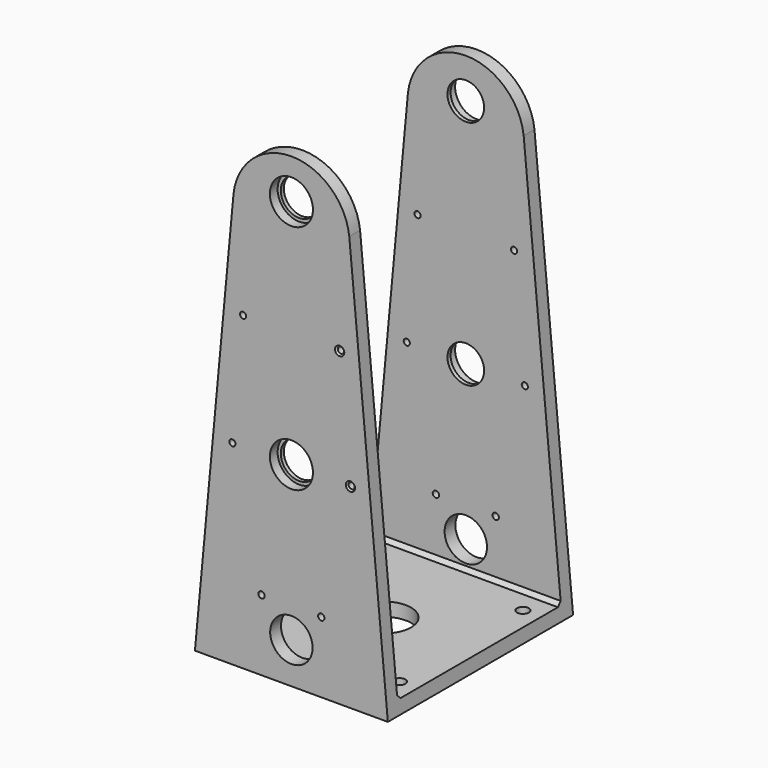
from build123d import *

# Parameters (mm, degrees)
SKETCH107_R             = 9.5
SKETCH107_R_2           = 11
SKETCH107_R_3           = 1.65
SKETCH107_R_4           = 1.6
PAD033_DEPTH            = 120
POCKET065_DEPTH         = 152.4
SKETCH104_R             = 3.1
SKETCH104_R_2           = 14
POCKET063_DEPTH         = 8
SKETCH103_R             = 11.15
POCKET064_DEPTH         = 5
SKETCH106_R             = 11.15
POCKET066_DEPTH         = 5
CHAMFER013_SIZE         = 0.8
BODY025_PLACEMENT_ANGLE = 90


with BuildPart() as part:
    # Sketch107 → Pad033 (new body)
    with BuildSketch(Plane.XY):
        with BuildLine():
            Line((-50, 0), (50, 0))
            Line((50, 0), (30, 215))
            ThreePointArc((30, 215), (0, 241.8364621975), (-30, 215))
            Line((-50, 0), (-30, 215))
        make_face()
        with Locations((0, 221.15)):
            Circle(SKETCH107_R, mode=Mode.SUBTRACT)
        with Locations((0, 21.15)):
            Circle(SKETCH107_R_2, mode=Mode.SUBTRACT)
        with Locations((0, 101.15)):
            Circle(SKETCH107_R, mode=Mode.SUBTRACT)
        with Locations((-15.5, 36.65)):
            Circle(SKETCH107_R_3, mode=Mode.SUBTRACT)
        with Locations((15.5, 36.65)):
            Circle(SKETCH107_R_3, mode=Mode.SUBTRACT)
        with Locations((-30.5906976744, 101.15)):
            Circle(SKETCH107_R_4, mode=Mode.SUBTRACT)
        with Locations((30.5906976744, 101.15)):
            Circle(SKETCH107_R_4, mode=Mode.SUBTRACT)
        with Locations((-25.0093023256, 161.15)):
            Circle(SKETCH107_R_4, mode=Mode.SUBTRACT)
        with Locations((25.0093023256, 161.15)):
            Circle(SKETCH107_R_4, mode=Mode.SUBTRACT)
    extrude(amount=PAD033_DEPTH)

    # Sketch105 → Pocket065 (cut, symmetric)
    with BuildSketch(Plane(origin=(0, 0, 120), x_dir=(0, 0, -1), z_dir=(1, 0, 0))):
        Polygon((7, 252.37), (113, 252.37), (113, 9), (111, 7), (9, 7), (7, 9), align=None)
    extrude(amount=POCKET065_DEPTH, both=True, mode=Mode.SUBTRACT)

    # Sketch104 (on Face1 of Pocket065) → Pocket063 (cut)
    with BuildSketch(Plane.XZ):
        with Locations((-40, 100)):
            Circle(SKETCH104_R)
        with Locations((40, 100)):
            Circle(SKETCH104_R)
        with Locations((-40, 20)):
            Circle(SKETCH104_R)
        with Locations((40, 20)):
            Circle(SKETCH104_R)
        with Locations((0, 60)):
            Circle(SKETCH104_R_2)
    extrude(amount=-POCKET063_DEPTH, mode=Mode.SUBTRACT)

    # Sketch103 (on Face4 of Pocket063) → Pocket064 (cut)
    with BuildSketch(Plane.XY.offset(120)):
        with Locations((0, 101.15)):
            Circle(SKETCH103_R)
        with Locations((0, 221.15)):
            Circle(SKETCH103_R)
    extrude(amount=-POCKET064_DEPTH, mode=Mode.SUBTRACT)

    # Sketch106 (on Face3 of Pocket064) → Pocket066 (cut)
    with BuildSketch(Plane(origin=(0, 0, 0), x_dir=(1, 0, 0), z_dir=(0, 0, -1))):
        with Locations((0, -221.15)):
            Circle(SKETCH106_R)
        with Locations((0, -101.15)):
            Circle(SKETCH106_R)
    extrude(amount=-POCKET066_DEPTH, mode=Mode.SUBTRACT)

    # Chamfer013
    chamfer013_edges = [part.edges().sort_by_distance(p)[0] for p in [
        (23.409302, 161.15, 0),
        (28.990698, 101.15, 0),
        (23.409302, 161.15, 120),
        (28.990698, 101.15, 120),
    ]]
    chamfer(chamfer013_edges, length=CHAMFER013_SIZE)


with BuildPart() as part_1:
    # Body025 placement: moved
    add(part.part.moved(Location((1, 0, 0))).rotate(Axis((1, 0, 0), (1, 0, 0)), BODY025_PLACEMENT_ANGLE))


solid = part_1.part
